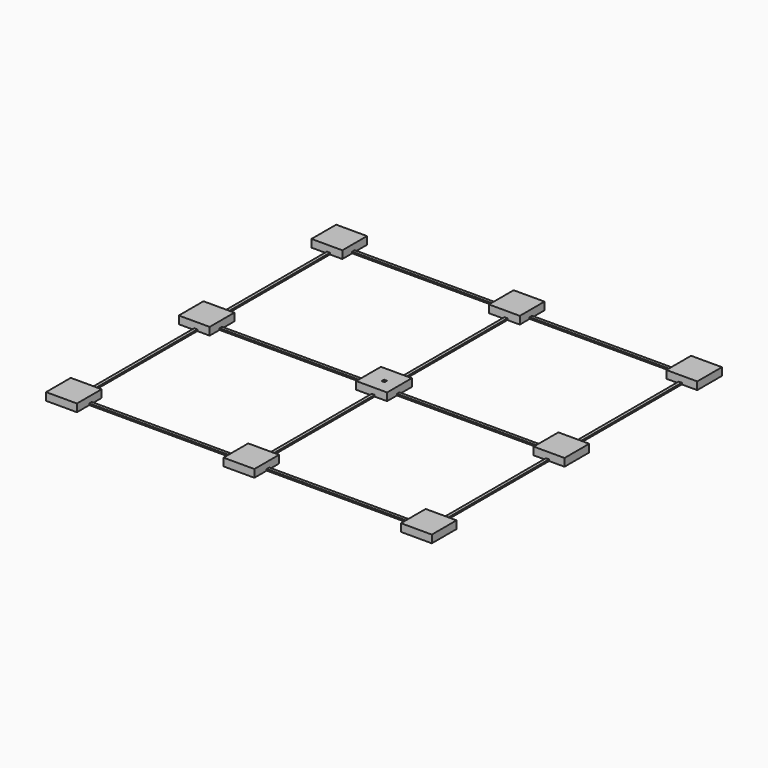
from build123d import *

# Parameters (mm, degrees)
F2_W     = 8
F2_H     = 8
F3_DEPTH = 5
F2_W_2   = 20
F2_H_2   = 10
F2_H_3   = 2
F2_W_3   = 10
F2_H_4   = 20
F2_W_4   = 2
F2_W_5   = 95
F2_H_5   = 87.5
F4_DEPTH = 1


with BuildPart() as f3:
    # F2 (on Top) → F3 (new body)
    with BuildSketch(Plane.XY):
        Polygon((-105, 117.5), (-125, 117.5), (-125, 97.5), (-115, 97.5), (-115, 107.5), (-105, 107.5), align=None)
        Polygon((-105, 105.5), (-105, 107.5), (-115, 107.5), (-115, 97.5), (-113, 97.5), (-113, 105.5), align=None)
        with Locations((-109, 101.5)):
            Rectangle(F2_W, F2_H)
    extrude(amount=F3_DEPTH)



with BuildPart() as f3b:
    # F2 (on Top) → F3, piece 2 (new body)
    with BuildSketch(Plane.XY):
        with Locations((0, 112.5)):
            Rectangle(F2_W_2, F2_H_2)
        with Locations((0, 106.5)):
            Rectangle(F2_W_2, F2_H_3)
        Polygon((10, 105.5), (-10, 105.5), (-10, 97.5), (0, 97.5), (2, 97.5), (10, 97.5), align=None)
    extrude(amount=F3_DEPTH)


with BuildPart() as f3c:
    # F2 (on Top) → F3, piece 3 (new body)
    with BuildSketch(Plane.XY):
        Polygon((105, 117.5), (105, 107.5), (115, 107.5), (115, 97.5), (125, 97.5), (125, 117.5), align=None)
        Polygon((115, 107.5), (105, 107.5), (105, 105.5), (113, 105.5), (113, 97.5), (115, 97.5), align=None)
        with Locations((109, 101.5)):
            Rectangle(F2_W, F2_H)
    extrude(amount=F3_DEPTH)


with BuildPart() as f3d:
    # F2 (on Top) → F3, piece 4 (new body)
    with BuildSketch(Plane.XY):
        with Locations((-120, 0)):
            Rectangle(F2_W_3, F2_H_4)
        with Locations((-114, 0)):
            Rectangle(F2_W_4, F2_H_4)
        Polygon((-105, 10), (-113, 10), (-113, -10), (-105, -10), (-105, -2), (-105, 0), align=None)
    extrude(amount=F3_DEPTH)


with BuildPart() as f3e:
    # F2 (on Top) → F3, piece 5 (new body)
    with BuildSketch(Plane.XY):
        with Locations((-5, -6)):
            Rectangle(F2_W_3, F2_H)
        with Locations((-5, -1)):
            Rectangle(F2_W_3, F2_H_3)
        with Locations((-5, 5)):
            Rectangle(F2_W_3, F2_H_2)
        with Locations((6, 5)):
            Rectangle(F2_W, F2_H_2)
        with Locations((1, 5)):
            Rectangle(F2_W_4, F2_H_2)
        with Locations((1, -6)):
            Rectangle(F2_W_4, F2_H)
        with Locations((6, -6)):
            Rectangle(F2_W, F2_H)
        with Locations((6, -1)):
            Rectangle(F2_W, F2_H_3)
    extrude(amount=F3_DEPTH)


with BuildPart() as f3f:
    # F2 (on Top) → F3, piece 6 (new body)
    with BuildSketch(Plane.XY):
        Polygon((113, -10), (113, 10), (105, 10), (105, 0), (105, -2), (105, -10), align=None)
        with Locations((114, 0)):
            Rectangle(F2_W_4, F2_H_4)
        with Locations((120, 0)):
            Rectangle(F2_W_3, F2_H_4)
    extrude(amount=F3_DEPTH)


with BuildPart() as f3g:
    # F2 (on Top) → F3, piece 7 (new body)
    with BuildSketch(Plane.XY):
        Polygon((-115, -107.5), (-115, -97.5), (-125, -97.5), (-125, -117.5), (-105, -117.5), (-105, -107.5), align=None)
        Polygon((-113, -97.5), (-115, -97.5), (-115, -107.5), (-105, -107.5), (-105, -105.5), (-113, -105.5), align=None)
        with Locations((-109, -101.5)):
            Rectangle(F2_W, F2_H)
    extrude(amount=F3_DEPTH)


with BuildPart() as f3h:
    # F2 (on Top) → F3, piece 8 (new body)
    with BuildSketch(Plane.XY):
        with Locations((0, -112.5)):
            Rectangle(F2_W_2, F2_H_2)
        with Locations((0, -106.5)):
            Rectangle(F2_W_2, F2_H_3)
        Polygon((-10, -97.5), (-10, -105.5), (10, -105.5), (10, -97.5), (2, -97.5), (0, -97.5), align=None)
    extrude(amount=F3_DEPTH)


with BuildPart() as f3i:
    # F2 (on Top) → F3, piece 9 (new body)
    with BuildSketch(Plane.XY):
        Polygon((125, -97.5), (115, -97.5), (115, -107.5), (105, -107.5), (105, -117.5), (125, -117.5), align=None)
        Polygon((115, -107.5), (115, -97.5), (113, -97.5), (113, -105.5), (105, -105.5), (105, -107.5), align=None)
        with Locations((109, -101.5)):
            Rectangle(F2_W, F2_H)
    extrude(amount=F3_DEPTH)


with BuildPart() as f3_1:
    add(f3.part)

    add(f3b.part)  # F4 merges F3b

    add(f3c.part)  # F4 merges F3c

    add(f3d.part)  # F4 merges F3d

    add(f3e.part)  # F4 merges F3e

    add(f3f.part)  # F4 merges F3f

    add(f3g.part)  # F4 merges F3g

    add(f3h.part)  # F4 merges F3h

    add(f3i.part)  # F4 merges F3i
    # F2 (on Top) → F4 (join)
    with BuildSketch(Plane.XY):
        with Locations((-57.5, 106.5)):
            Rectangle(F2_W_5, F2_H_3)
        with Locations((57.5, 106.5)):
            Rectangle(F2_W_5, F2_H_3)
        with Locations((114, 53.75)):
            Rectangle(F2_W_4, F2_H_5)
        with Locations((114, -53.75)):
            Rectangle(F2_W_4, F2_H_5)
        with Locations((57.5, -106.5)):
            Rectangle(F2_W_5, F2_H_3)
        with Locations((-57.5, -106.5)):
            Rectangle(F2_W_5, F2_H_3)
        with Locations((-114, -53.75)):
            Rectangle(F2_W_4, F2_H_5)
        with Locations((-114, 53.75)):
            Rectangle(F2_W_4, F2_H_5)
        with Locations((1, 53.75)):
            Rectangle(F2_W_4, F2_H_5)
        with Locations((1, -53.75)):
            Rectangle(F2_W_4, F2_H_5)
        with Locations((-57.5, -1)):
            Rectangle(F2_W_5, F2_H_3)
        with Locations((57.5, -1)):
            Rectangle(F2_W_5, F2_H_3)
    extrude(amount=F4_DEPTH)


solid = f3_1.part
